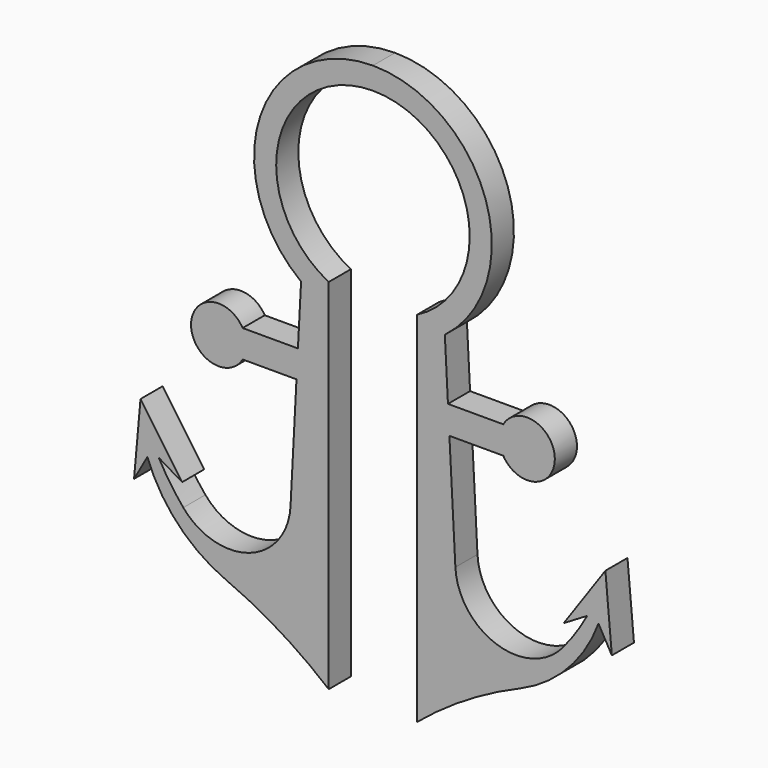
from build123d import *

# Parameters (mm, degrees)
F1_DEPTH = 5


with BuildPart() as f1:
    # F0 (on Front) → F1 (new body)
    with BuildSketch(Plane.XZ):
        with BuildLine():
            Line((0, 17.5), (0, 21.5))
            ThreePointArc((0, 21.5), (-20.376797, 6.858291), (-13, -17.124544))
            Line((-13, -17.124544), (-13.567663, -27.956202))
            Line((-13.567663, -27.956202), (-23.567663, -27.956202))
            ThreePointArc((-23.567663, -27.956202), (-32.89779, -30.456202), (-23.567663, -32.956202))
            Line((-23.567663, -32.956202), (-13.829702, -32.956202))
            Line((-13.829702, -32.956202), (-14.907737, -53.526337))
            ThreePointArc((-14.907737, -53.526337), (-22.389872, -63.378031), (-34.302261, -60.041385))
            ThreePointArc((-34.302261, -60.041385), (-36.688307, -56.897738), (-38.739987, -53.526337))
            Line((-38.739987, -53.526337), (-34.511764, -56.051488))
            Line((-34.511764, -56.051488), (-42.037944, -45.259527))
            Line((-42.037944, -45.259527), (-43.209494, -58.364384))
            Line((-43.209494, -58.364384), (-40.79404, -54.07255))
            ThreePointArc((-40.79404, -54.07255), (-35.239888, -63.015457), (-26.595041, -69.023021))
            ThreePointArc((-26.595041, -69.023021), (-16.881661, -74.035451), (-8, -80.406505))
            Line((-8, -80.406505), (-8, -19.956202))
            Line((-8, -19.956202), (-8, -15.564382))
            ThreePointArc((-8, -15.564382), (-17.009214, 4.115417), (0, 17.5))
        make_face()
    extrude(amount=F1_DEPTH)

    # F2: F1 across face


with BuildPart() as f1_1:
    add(f1.part)
    add(f1.part.mirror(Plane(origin=(0, -2.5, 19.5), x_dir=(0, 1, 0), z_dir=(1, 0, 0))))


solid = f1_1.part
